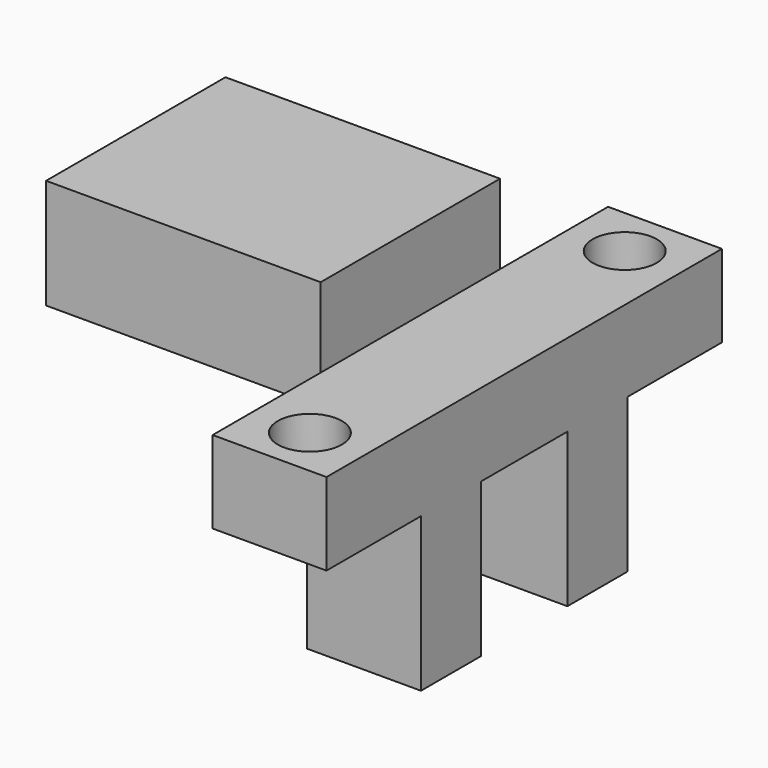
from build123d import *

# Parameters (mm, degrees)
SKETCH028_W             = 27
SKETCH028_H             = 6.22
SKETCH028_R             = 1.75
PAD016_DEPTH            = 4.5
SKETCH029_W             = 4.1
SKETCH029_H             = 6.22
PAD017_DEPTH            = 8.4
SKETCH030_W             = 12.25
SKETCH030_H             = 6
PAD018_DEPTH            = 15
BODY004_PLACEMENT_ANGLE = 90


with BuildPart() as obj1:
    # Sketch028 → Pad016 (new body)
    with BuildSketch(Plane.XY):
        Rectangle(SKETCH028_W, SKETCH028_H)
        with Locations((10.75, 0)):
            Circle(SKETCH028_R, mode=Mode.SUBTRACT)
        with Locations((-10.75, 0)):
            Circle(SKETCH028_R, mode=Mode.SUBTRACT)
    extrude(amount=PAD016_DEPTH)

    # Sketch029 (on Face7 of Pad016) → Pad017 (join)
    with BuildSketch(Plane(origin=(0, 0, 0), x_dir=(1, 0, 0), z_dir=(0, 0, -1))):
        with Locations((-5, 0)):
            Rectangle(SKETCH029_W, SKETCH029_H)
        with Locations((5, 0)):
            Rectangle(SKETCH029_W, SKETCH029_H)
    extrude(amount=PAD017_DEPTH)

    # Sketch030 (on Face10 of Pad017) → Pad018 (join)
    with BuildSketch(Plane.XZ.offset(3.11)):
        with Locations((0, 5.85)):
            Rectangle(SKETCH030_W, SKETCH030_H)
    extrude(amount=PAD018_DEPTH)


with BuildPart() as obj1_1:
    # Body004 placement: moved
    add(obj1.part.moved(Location((-20, 23, -4.5))).rotate(Axis((-20, 23, -4.5), (0, 0, -1)), BODY004_PLACEMENT_ANGLE))


with BuildPart() as part_mirroring002:
    # Part__Mirroring002: instance of obj1
    add(obj1_1.part.mirror(Plane(origin=(0, 0, 0), x_dir=(1, 0, 0), z_dir=(0, 1, 0))))


solid = part_mirroring002.part
